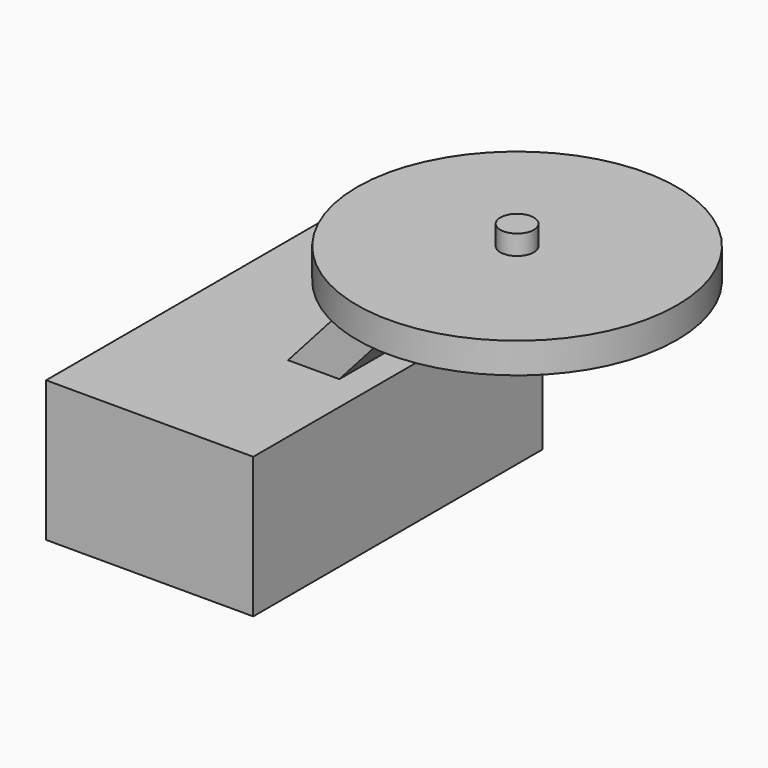
from build123d import *

# Parameters (mm, degrees)
F1_DEPTH = 63.5
F2_DEPTH = 12.7
F0_W     = 50.3543876112
F0_H     = 10.7296556234
F0_W_2   = 5.8838576078
F0_H_2   = 6.9569721818


with BuildPart() as f1:
    # F0 (on Front) → F1 (new body, symmetric)
    with BuildSketch(Plane.XZ):
        Polygon((26.0407731761, 24.6988553554), (8.0104582012, 24.6988553554), (-36.4082939923, 24.6988553554), (-36.4082939923, -24.6988553554), (36.4082939923, -24.6988553554), (36.4082939923, 24.6988553554), align=None)
    extrude(amount=F1_DEPTH, both=True)

    # F0 (on Front) → F2 (join, symmetric)
    with BuildSketch(Plane.XZ):
        Polygon((45.6321343976, 66.9679120183), (8.0104582012, 24.6988553554), (26.0407731761, 24.6988553554), (63.6624493725, 66.9679120183), align=None)
    extrude(amount=F2_DEPTH, both=True)

    # F0 (on Front) → F3 (revolve)
    with BuildSketch(Plane.XZ):
        with Locations((109.4061043113, 72.33273983)):
            Rectangle(F0_W, F0_H)
        Polygon((78.3450528979, 72.33273983), (78.3450528979, 66.9679120183), (84.2289105058, 66.9679120183), (84.2289105058, 77.6975676417), (78.3450528979, 77.6975676417), align=None)
        with Locations((81.2869817019, 63.4894259274)):
            Rectangle(F0_W_2, F0_H_2)
        with Locations((81.2869817019, 81.1760537326)):
            Rectangle(F0_W_2, F0_H_2)
    revolve(axis=Axis((78.3450528979, 0, 78.4936398268), (0, 0, 1)))


solid = f1.part
